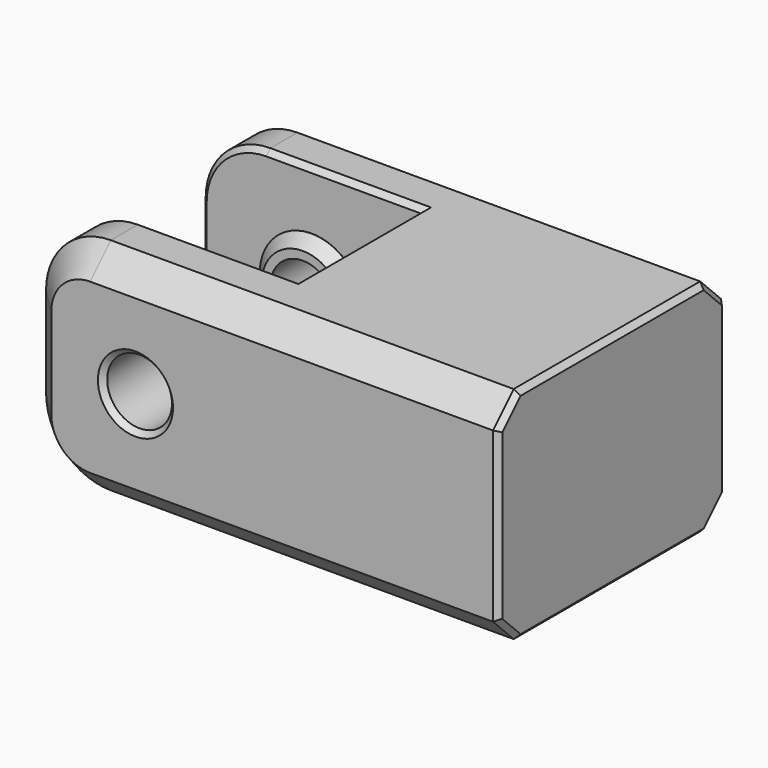
from build123d import *

# Parameters (mm, degrees)
SKETCH003_W                = 36.5
SKETCH003_H                = 17
PAD001_DEPTH               = 11
SKETCH004_W                = 17
SKETCH004_H                = 17
POCKET002_DEPTH            = 6
SKETCH005_R                = 2.5
POCKET003_DEPTH            = 22.001
FILLET_R                   = 5
SKETCH013_R                = 4
SKETCH013_R_2              = 2.5
PAD006_DEPTH               = 0.85
CHAMFER004_SIZE            = 0.84
CHAMFER005_SIZE            = 2
CHAMFER006_SIZE            = 0.4
BODY001002_PLACEMENT_ANGLE = 90


with BuildPart() as part:
    # Sketch003 → Pad001 (new body, symmetric)
    with BuildSketch(Plane.XY):
        with Locations((9.75, 0)):
            Rectangle(SKETCH003_W, SKETCH003_H)
    extrude(amount=PAD001_DEPTH, both=True)

    # Sketch004 → Pocket002 (cut, symmetric)
    with BuildSketch(Plane.XY):
        Rectangle(SKETCH004_W, SKETCH004_H)
    extrude(amount=POCKET002_DEPTH, both=True, mode=Mode.SUBTRACT)

    # Sketch005 (on Face4 of Pocket002) → Pocket003 (cut, through all)
    with BuildSketch(Plane.XY.offset(11)):
        Circle(SKETCH005_R)
    extrude(amount=-POCKET003_DEPTH, mode=Mode.SUBTRACT)

    # Fillet
    fillet_edges = [part.edges().sort_by_distance(p)[0] for p in [
        (-8.5, 8.5, -8.5),
        (-8.5, -8.5, -8.5),
        (-8.5, 8.5, 8.5),
        (-8.5, -8.5, 8.5),
    ]]
    fillet(fillet_edges, radius=FILLET_R)

    # Sketch013 (on Face9 of Fillet) → Pad006 (join)
    with BuildSketch(Plane(origin=(0, 0, 6), x_dir=(1, 0, 0), z_dir=(0, 0, -1))):
        Circle(SKETCH013_R)
        Circle(SKETCH013_R_2, mode=Mode.SUBTRACT)
    pad006 = extrude(amount=PAD006_DEPTH)

    # Mirrored: Pad006 across XY
    add(pad006.mirror(Plane.XY))

    # Chamfer004
    chamfer004_edges = [part.edges().sort_by_distance(p)[0] for p in [
        (-4, 0, 5.15),
        (-4, 0, -5.15),
    ]]
    chamfer(chamfer004_edges, length=CHAMFER004_SIZE)

    # Chamfer005
    chamfer005_edges = [part.edges().sort_by_distance(p)[0] for p in [
        (12.25, -8.5, -11),
        (-7.035534, -7.035534, -11),
        (-8.5, 0, -11),
        (-7.035534, 7.035534, -11),
        (12.25, 8.5, -11),
        (12.25, 8.5, 11),
        (-7.035534, 7.035534, 11),
        (-8.5, 0, 11),
        (-7.035534, -7.035534, 11),
        (12.25, -8.5, 11),
    ]]
    chamfer(chamfer005_edges, length=CHAMFER005_SIZE)

    # Chamfer006
    chamfer006_edges = [part.edges().sort_by_distance(p)[0] for p in [
        (-8.5, 0, 6),
        (2.5, 8.5, 6),
        (-7.035534, 7.035534, 6),
        (-7.035534, -7.035534, 6),
        (2.5, -8.5, 6),
        (8.5, -8.5, 0),
        (2.5, -8.5, -6),
        (-7.035534, -7.035534, -6),
        (-8.5, 0, -6),
        (-7.035534, 7.035534, -6),
        (2.5, 8.5, -6),
        (8.5, 8.5, 0),
        (28, 8.5, 0),
        (28, 7.5, -10),
        (28, 7.5, 10),
        (28, 0, -11),
        (28, 0, 11),
        (28, -7.5, -10),
        (28, -7.5, 10),
        (28, -8.5, 0),
        (-2.5, 0, -11),
        (-2.5, 0, 11),
    ]]
    chamfer(chamfer006_edges, length=CHAMFER006_SIZE)


with BuildPart() as part_1:
    # Body001002 placement: moved
    add(part.part.rotate(Axis((0, 0, 0), (-1, 0, 0)), BODY001002_PLACEMENT_ANGLE))


solid = part_1.part
